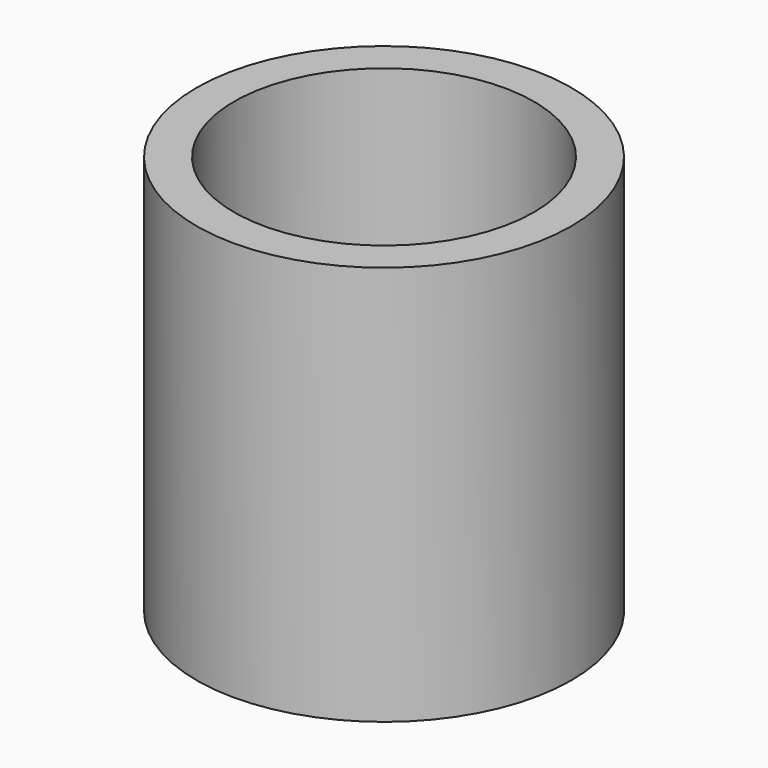
from build123d import *

# Parameters (mm, degrees)
F0_R     = 190.5
F0_R_2   = 152.4
F1_DEPTH = 406.4
F3_DEPTH = 254


with BuildPart() as f1:
    # F0 (on Top) → F1 (new body)
    with BuildSketch(Plane.XY):
        Circle(F0_R)
        Circle(F0_R_2, mode=Mode.SUBTRACT)
    extrude(amount=F1_DEPTH)

    # F2 (on Front) → F3 (cut)
    with BuildSketch(Plane.XZ):
        with BuildLine():
            Line((-101.6, 0), (101.6, 0))
            ThreePointArc((101.6, 0), (0, 101.6), (-101.6, 0))
        make_face()
    extrude(amount=-F3_DEPTH, mode=Mode.SUBTRACT)


solid = f1.part
